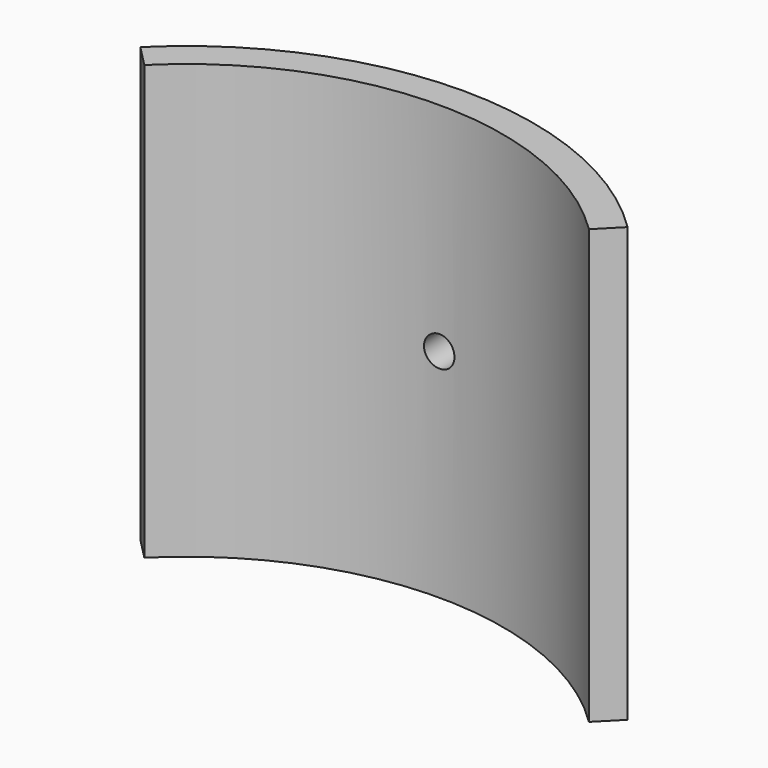
from build123d import *

# Parameters (mm, degrees)
F1_DEPTH = 22.606
F2_R     = 0.79375
F3_DEPTH = 19.0975001


with BuildPart() as f1:
    # F0 (on Top) → F1 (new body)
    with BuildSketch(Plane.XY):
        with BuildLine():
            ThreePointArc((-11.5859649124, 11.762037113), (0, 16.51), (11.5859649124, 11.762037113))
            Line((11.5859649124, 11.762037113), (12.7000000001, 12.8930022201))
            ThreePointArc((12.7000000001, 12.8930022201), (0, 18.0975), (-12.7000000001, 12.8930022201))
            Line((-12.7000000001, 12.8930022201), (-11.5859649124, 11.762037113))
        make_face()
    extrude(amount=F1_DEPTH)

    # F2 (on Front) → F3 (cut, up to face)
    with BuildSketch(Plane.XZ):
        with Locations((0, 11.303)):
            Circle(F2_R)
    extrude(amount=-F3_DEPTH, mode=Mode.SUBTRACT)


solid = f1.part
